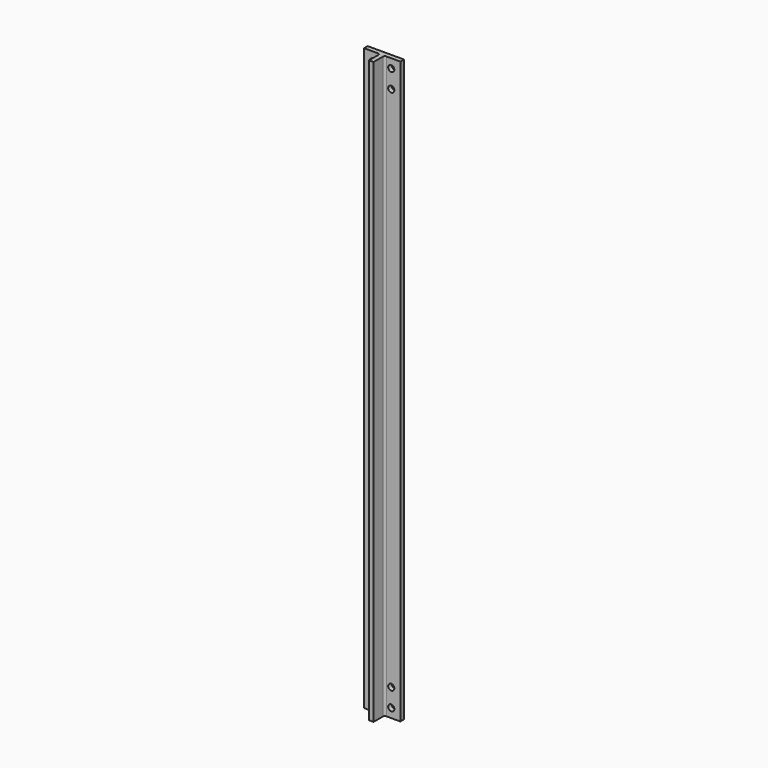
from build123d import *

# Parameters (mm, degrees)
F1_DEPTH = 406.4
F2_R     = 1.27
F4_D     = 4.318
F4_DEPTH = 25.4
F4_TIP   = 1.2972580765


with BuildPart() as f1:
    # F0 (on Top) → F1 (new body)
    with BuildSketch(Plane.XY):
        Polygon((12.7, 0), (0, 0), (-12.7, 0), (-12.7, -3.175), (-1.5875, -3.175), (-1.5875, -12.7), (0, -12.7), (1.5875, -12.7), (1.5875, -3.175), (12.7, -3.175), align=None)
    extrude(amount=F1_DEPTH)

    # F2
    f2_edges = [f1.edges().sort_by_distance(p)[0] for p in [
        (-1.5875, -3.175, 203.2),
        (1.5875, -3.175, 203.2),
    ]]
    fillet(f2_edges, radius=F2_R)

    # F4
    with Locations(Plane(origin=(0, 0, 0), x_dir=(-1, 0, 0), z_dir=(0, 1, 0))):
        with Locations((-6.35, 400.05), (-6.35, 387.35), (6.35, 387.35), (6.35, 400.05), (-6.35, 6.35), (-6.35, 19.05), (6.35, 19.05), (6.35, 6.35)):
            Hole(F4_D / 2, depth=F4_DEPTH)
            with Locations((0, 0, -(F4_DEPTH + F4_TIP / 2))):  # 118° drill point
                Cone(0, F4_D / 2, F4_TIP, mode=Mode.SUBTRACT)


solid = f1.part
